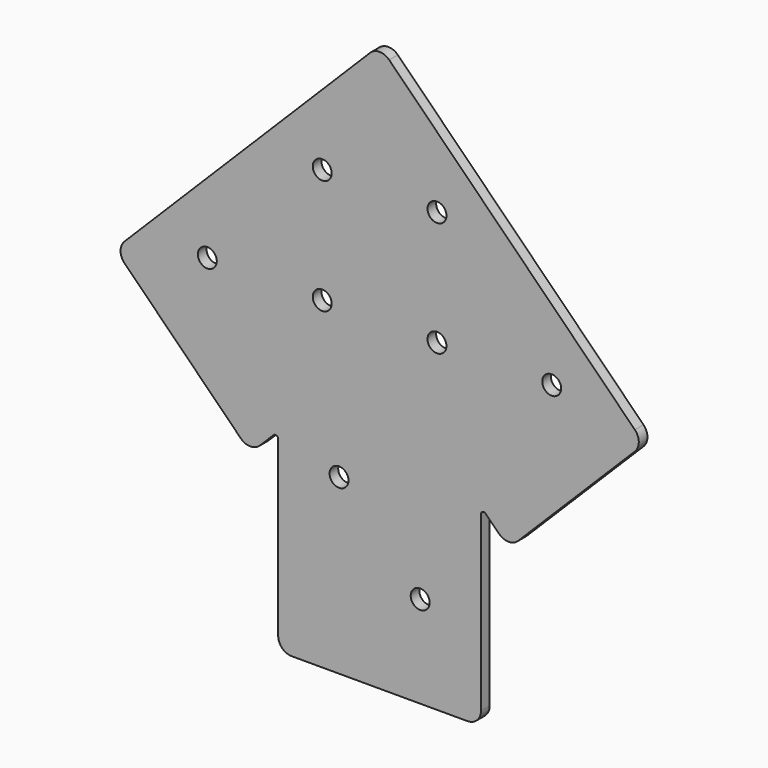
from build123d import *

# Parameters (mm, degrees)
F0_R     = 3.5
F1_DEPTH = 4


with BuildPart() as f1:
    # F0 (on Front) → F1 (new body)
    with BuildSketch(Plane.XZ):
        with BuildLine():
            ThreePointArc((-37.499913, -156.989579), (-36.035447, -160.525113), (-32.499913, -161.989579))
            Line((-32.499913, -161.989579), (32.5, -161.989579))
            ThreePointArc((32.5, -161.989579), (36.035534, -160.525113), (37.5, -156.989579))
            Line((37.5, -156.989579), (37.5, -92.957015))
            ThreePointArc((37.5, -92.957015), (38.117351, -92.033122), (39.207159, -92.249961))
            Line((39.207159, -92.249961), (44.165944, -97.209485))
            ThreePointArc((44.165944, -97.209485), (47.701369, -98.674214), (51.237012, -97.210012))
            Line((51.237012, -97.210012), (94.372683, -54.080767))
            ThreePointArc((94.372683, -54.080767), (95.837412, -50.545342), (94.37321, -47.009699))
            Line((94.37321, -47.009699), (3.545264, 43.83178))
            ThreePointArc((3.545264, 43.83178), (0.007913, 45.296509), (-3.528527, 43.829581))
            Line((-3.528527, 43.829581), (-94.323902, -47.092308))
            ThreePointArc((-94.323902, -47.092308), (-95.785908, -50.626001), (-94.323024, -54.15933))
            Line((-94.323024, -54.15933), (-51.312724, -97.208165))
            ThreePointArc((-51.312724, -97.208165), (-47.777847, -98.674215), (-44.241657, -97.211332))
            Line((-44.241657, -97.211332), (-39.206703, -92.180884))
            ThreePointArc((-39.206703, -92.180884), (-38.117023, -91.964514), (-37.499913, -92.888308))
            Line((-37.499913, -92.888308), (-37.499913, -156.989579))
        make_face()
        with Locations((-15, -97.989666)):
            Circle(F0_R, mode=Mode.SUBTRACT)
        with Locations((15, -127.989666)):
            Circle(F0_R, mode=Mode.SUBTRACT)
        with Locations((-63.700608, -42.439875)):
            Circle(F0_R, mode=Mode.SUBTRACT)
        with Locations((-21.217162, -42.439875)):
            Circle(F0_R, mode=Mode.SUBTRACT)
        with Locations((-21.217162, 0.005542)):
            Circle(F0_R, mode=Mode.SUBTRACT)
        with Locations((21.214001, -42.431946)):
            Circle(F0_R, mode=Mode.SUBTRACT)
        with Locations((63.632487, -42.443023)):
            Circle(F0_R, mode=Mode.SUBTRACT)
        with Locations((21.217162, -0.005539)):
            Circle(F0_R, mode=Mode.SUBTRACT)
    extrude(amount=F1_DEPTH)


solid = f1.part
